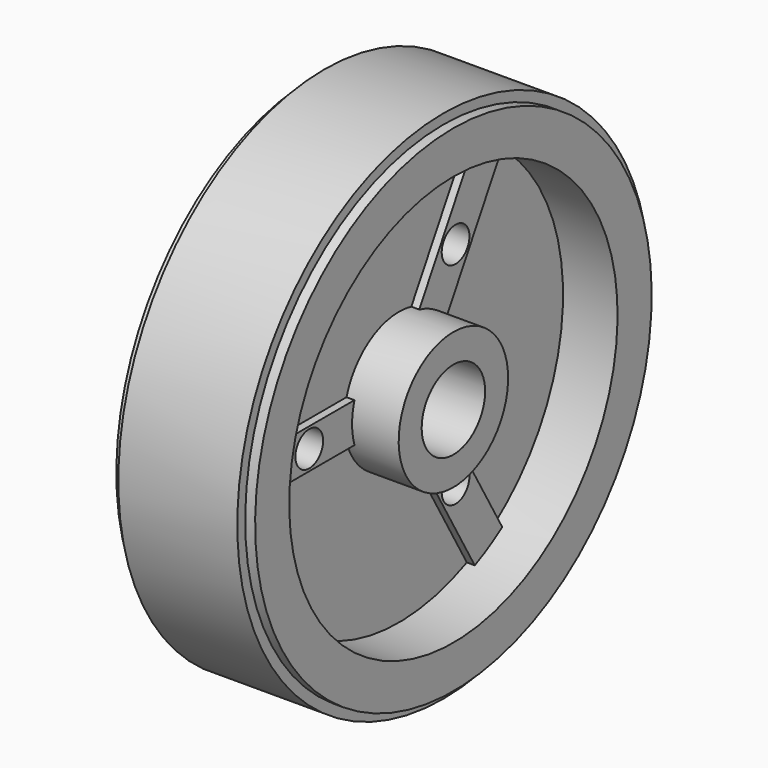
from build123d import *

# Parameters (mm, degrees)
PAD_DEPTH             = 0.8
POLARPATTERN_COUNT    = 3
SKETCH002_R           = 1.75
POCKET_DEPTH          = 163.720738
POLARPATTERN001_COUNT = 3


with BuildPart() as part:
    # Sketch → Revolution (revolve)
    with BuildSketch(Plane.XZ):
        Polygon((-7, 4), (7, 4), (7, 6.9), (1.5, 6.9), (1.5, 20.7), (7, 20.7), (7, 25), (6, 25), (6, 26), (-6, 26), (-6, 25), (-7, 25), (-7, 20.7), (-1.5, 20.7), (-1.5, 13), (-3.5, 13), (-3.5, 10.5), (-1.5, 10.5), (-1.5, 6.9), (-7, 6.9), align=None)
    revolve(axis=Axis((0, 0, 0), (1, 0, 0)))

    # Sketch001 (on Face4 of Revolution) → Pad (new body)
    with BuildSketch(Plane(origin=(1.5, 0, 0), x_dir=(0, 0, 1), z_dir=(1, 0, 0))):
        with BuildLine():
            Line((2, 20.603155), (2, 6.603787))
            ThreePointArc((2, 6.603787), (0, 6.9), (-2, 6.603787))
            Line((-2, 6.603787), (-2, 20.603155))
            ThreePointArc((2, 20.603155), (0, 20.7), (-2, 20.603155))
        make_face()
    pad = extrude(amount=PAD_DEPTH)

    # PolarPattern: Pad ×3 about axis
    polarpattern_axis = Axis((1.5, 0, 0), (1, 0, 0))
    for i in range(1, POLARPATTERN_COUNT):
        add(pad.rotate(polarpattern_axis, i * 360 / POLARPATTERN_COUNT))

    # Sketch002 (on Face22 of PolarPattern) → Pocket (cut, through all)
    with BuildSketch(Plane(origin=(7, 0, 0), x_dir=(0, 0, 1), z_dir=(1, 0, 0))):
        with Locations((0, 12.3)):
            Circle(SKETCH002_R)
    pocket = extrude(amount=-POCKET_DEPTH, mode=Mode.SUBTRACT)

    # PolarPattern001: Pocket ×3 about axis
    polarpattern001_axis = Axis((7, 0, 0), (1, 0, 0))
    for i in range(1, POLARPATTERN001_COUNT):
        add(pocket.rotate(polarpattern001_axis, i * 360 / POLARPATTERN001_COUNT), mode=Mode.SUBTRACT)


solid = part.part
